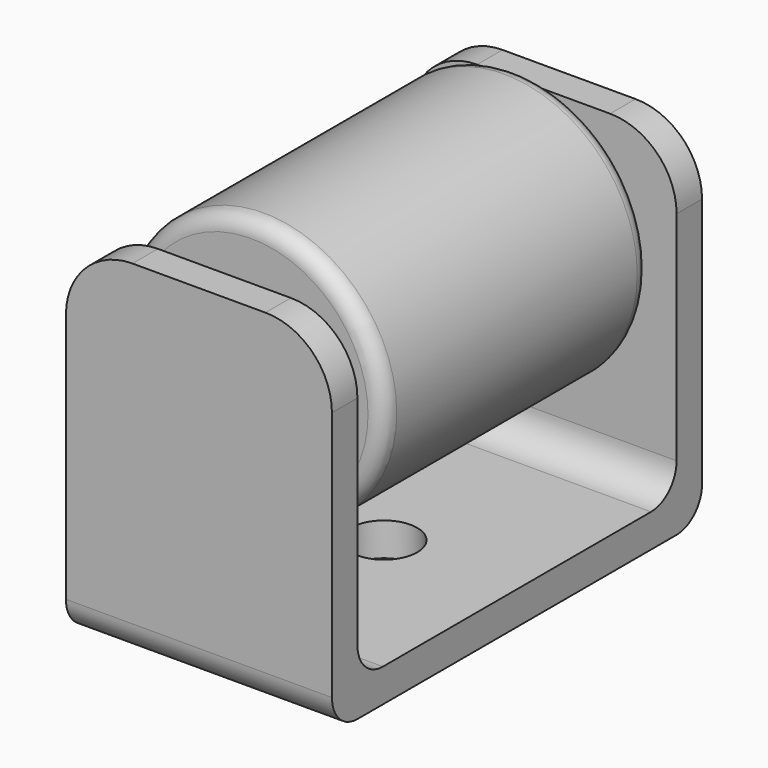
from build123d import *

# Parameters (mm, degrees)
F0_R          = 12.7
F0_R_2        = 3.175
F1_DEPTH      = 31.75
F3_DEPTH      = 12.7
F3_DEPTH_BACK = 12.7
F4_R          = 3.048
F5_R          = 6.35
F6_R          = 3.175
F7_DEPTH      = 44.17668
F8_R          = 3.175
F9_DEPTH      = 44.17568
F10_R         = 3.175
F11_DEPTH     = 3.175
F12_R         = 1.524


with BuildPart() as f1:
    # F0 (on Front) → F1 (new body)
    with BuildSketch(Plane.XZ):
        Circle(F0_R)
        Circle(F0_R_2, mode=Mode.SUBTRACT)
    extrude(amount=F1_DEPTH)



with BuildPart() as f3:
    # F2 (on Right) → F3 (new body, two sides)
    with BuildSketch(Plane.YZ) as f3_sk:
        Polygon((-34.925, -20.6375), (-34.925, 9.525), (-37.96284, 9.525), (-37.96284, -23.8125), (6.21284, -23.8125), (6.21284, 9.525), (3.175, 9.525), (3.175, -20.6375), align=None)
    extrude(amount=F3_DEPTH)
    extrude(f3_sk.sketch, amount=-F3_DEPTH_BACK)

    # F4
    f4_edges = [f3.edges().sort_by_distance(p)[0] for p in [
        (0, -37.96284, -23.8125),
        (0, -34.925, -20.6375),
        (0, 3.175, -20.6375),
        (0, 6.21284, -23.8125),
    ]]
    fillet(f4_edges, radius=F4_R)

    # F5
    f5_edges = [f3.edges().sort_by_distance(p)[0] for p in [
        (12.7, -36.44392, 9.525),
        (-12.7, -36.44392, 9.525),
        (-12.7, 4.69392, 9.525),
        (12.7, 4.69392, 9.525),
    ]]
    fillet(f5_edges, radius=F5_R)

    # F6 (on face) → F7 (cut, through all)
    with BuildSketch(Plane.XZ.offset(37.96284)):
        Circle(F6_R)
    extrude(amount=-F7_DEPTH, mode=Mode.SUBTRACT)


with BuildPart() as f1_1:
    add(f1.part)

    add(f3.part)  # F9 merges F3
    # F8 (on face) → F9 (join, through all)
    with BuildSketch(Plane.XZ.offset(37.96284)):
        Circle(F8_R)
    extrude(amount=-F9_DEPTH)

    # F10 (on face) → F11 (cut, through all)
    with BuildSketch(Plane(origin=(0, 0, -23.8125), x_dir=(1, 0, 0), z_dir=(0, 0, -1))):
        with Locations((0, 15.875)):
            Circle(F10_R)
    extrude(amount=-F11_DEPTH, mode=Mode.SUBTRACT)

    # F12
    f12_edges = [f1_1.edges().sort_by_distance(p)[0] for p in [
        (-12.7, -31.75, 0),
        (-12.7, 0, 0),
    ]]
    fillet(f12_edges, radius=F12_R)


solid = f1_1.part
